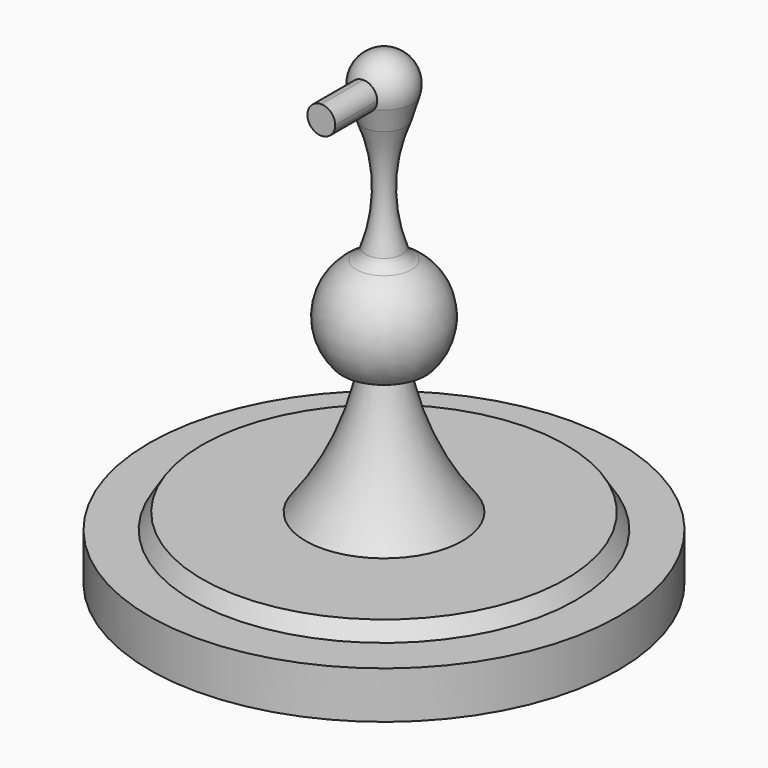
from build123d import *

# Parameters (mm, degrees)
F2_DEPTH = 25.4


with BuildPart() as f1:
    # F0 (on Front) → F1 (revolve)
    with BuildSketch(Plane.XZ):
        with BuildLine():
            ThreePointArc((-9.856732, -9.176707), (-12.348122, 5.375036), (0, 13.467261))
            Line((0, 13.467261), (0, 18.480484))
            Line((0, 18.480484), (0, 56.771169))
            Line((0, 56.771169), (0, 61.819614))
            ThreePointArc((0, 61.819614), (-4.514257, 66.333871), (0, 70.848128))
            Line((0, 70.848128), (0, 75.896574))
            ThreePointArc((0, 75.896574), (-7.66915, 72.046088), (-9.162231, 63.595477))
            Line((-9.162231, 63.595477), (-6.977617, 56.286104))
            ThreePointArc((-6.977617, 56.286104), (-3.086726, 38.039314), (-6.014364, 19.613426))
            ThreePointArc((-6.014364, 19.613426), (-7.157333, 17.629516), (-8.929617, 16.179933))
            ThreePointArc((-8.929617, 16.179933), (-18.249105, 2.915213), (-13.525927, -12.59276))
            Line((-13.525927, -12.59276), (-9.856732, -9.176707))
        make_face()
    revolve(axis=Axis((0, 0, 9.240242), (0, 0, 1)))


with BuildPart() as f2:
    # F0 (on Front) → F2 (new body)
    with BuildSketch(Plane.XZ):
        with BuildLine():
            ThreePointArc((0, 70.848128), (-4.514257, 66.333871), (0, 61.819614))
            ThreePointArc((0, 61.819614), (3.192062, 63.14181), (4.514257, 66.333871))
            ThreePointArc((4.514257, 66.333871), (3.192062, 69.525933), (0, 70.848128))
        make_face()
    extrude(amount=F2_DEPTH)


with BuildPart() as f4:
    # F3 (on Front) → F4 (revolve)
    with BuildSketch(Plane.XZ):
        with BuildLine():
            Line((0, 0), (0, 12.954096))
            ThreePointArc((0, 12.954096), (-12.547065, 3.221765), (-6.241068, -11.351549))
            ThreePointArc((-6.241068, -11.351549), (-3.221765, -12.547065), (0, -12.954096))
            Line((0, -12.954096), (0, 0))
        make_face()
    revolve(axis=Axis((0, 0, -38.097784), (0, 0, -1)))

    # F3 (on Front) → F5 (revolve)
    with BuildSketch(Plane.XZ):
        with BuildLine():
            ThreePointArc((0, -12.954096), (-3.221765, -12.547065), (-6.241068, -11.351549))
            ThreePointArc((-6.241068, -11.351549), (-12.9096, -34.880945), (-25.428794, -55.889789))
            Line((-25.428794, -55.889789), (-58.961272, -55.889789))
            Line((-58.961272, -55.889789), (-62.128227, -60.919661))
            Line((-62.128227, -60.919661), (-76.100096, -60.919661))
            Line((-76.100096, -60.919661), (-76.100096, -76.195568))
            Line((-76.100096, -76.195568), (0, -76.195568))
            Line((0, -76.195568), (0, -12.954096))
        make_face()
    revolve(axis=Axis((0, 0, -38.097784), (0, 0, -1)))


solid = Compound([f1.part, f2.part, f4.part])
